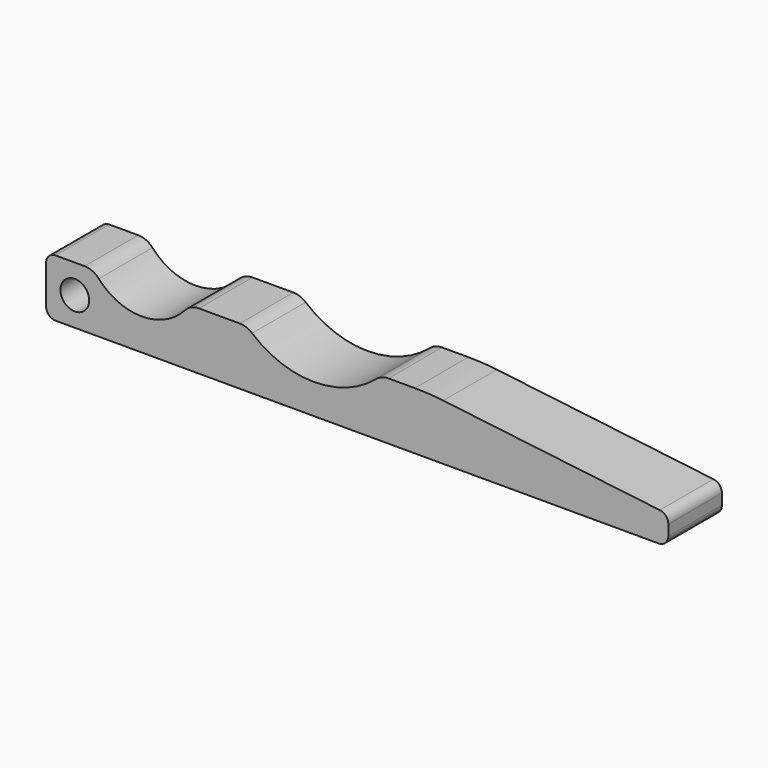
from build123d import *

# Parameters (mm, degrees)
F0_R     = 1.5
F1_DEPTH = 7


with BuildPart() as f1:
    # F0 (on Front) → F1 (new body)
    with BuildSketch(Plane.XZ):
        with BuildLine():
            Line((-39, 0), (0, 0))
            Line((0, 0), (24, 0))
            ThreePointArc((24, 0), (24.707107, 0.292893), (25, 1))
            Line((25, 1), (25, 2.112826))
            ThreePointArc((25, 2.112826), (24.748046, 2.776473), (24.119145, 3.105703))
            Line((24.119145, 3.105703), (1.483992, 5.821921))
            ThreePointArc((1.483992, 5.821921), (-0.002664, 5.955441), (-1.494639, 6))
            Line((-1.494639, 6), (-4.226051, 6))
            ThreePointArc((-4.226051, 6), (-4.916289, 5.877118), (-5.521709, 5.523571))
            ThreePointArc((-5.521709, 5.523571), (-12, 3.141428), (-18.478291, 5.523571))
            ThreePointArc((-18.478291, 5.523571), (-19.083711, 5.877118), (-19.773949, 6))
            Line((-19.773949, 6), (-24.02225, 6))
            ThreePointArc((-24.02225, 6), (-24.8413, 5.824598), (-25.516687, 5.329156))
            ThreePointArc((-25.516687, 5.329156), (-30, 3.316625), (-34.483313, 5.329156))
            ThreePointArc((-34.483313, 5.329156), (-35.1587, 5.824598), (-35.97775, 6))
            Line((-35.97775, 6), (-39, 6))
            ThreePointArc((-39, 6), (-39.707107, 5.707107), (-40, 5))
            Line((-40, 5), (-40, 1))
            ThreePointArc((-40, 1), (-39.707107, 0.292893), (-39, 0))
        make_face()
        with Locations((-37, 3)):
            Circle(F0_R, mode=Mode.SUBTRACT)
    extrude(amount=F1_DEPTH)


solid = f1.part
